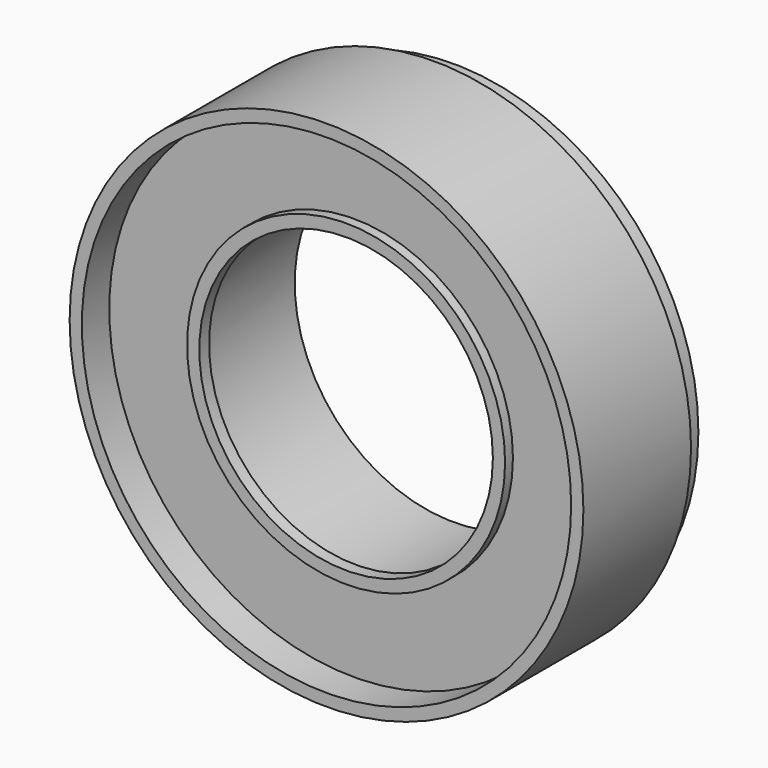
from build123d import *

# Parameters (mm, degrees)
F0_R          = 10.5
F0_R_2        = 10
F1_DEPTH      = 1.5
F1_DEPTH_BACK = 4
F0_R_3        = 6.5
F0_R_4        = 6
F2_DEPTH      = 0.5
F3_DEPTH      = 0.1
F4_DEPTH      = 5


with BuildPart() as f1:
    # F0 (on Front) → F1 (new body, two sides)
    with BuildSketch(Plane.XZ) as f1_sk:
        with Locations((-128.683195, -12.319595)):
            Circle(F0_R)
        with Locations((-128.683195, -12.319595)):
            Circle(F0_R_2, mode=Mode.SUBTRACT)
    extrude(amount=F1_DEPTH)
    extrude(f1_sk.sketch, amount=-F1_DEPTH_BACK)


with BuildPart() as f2:
    # F0 (on Front) → F2 (new body)
    with BuildSketch(Plane.XZ):
        with Locations((-128.683195, -12.319595)):
            Circle(F0_R_3)
        with Locations((-128.683195, -12.319595)):
            Circle(F0_R_4, mode=Mode.SUBTRACT)
    extrude(amount=F2_DEPTH)


with BuildPart() as f3:
    # F0 (on Front) → F3 (new body)
    with BuildSketch(Plane.XZ):
        with Locations((-128.683195, -12.319595)):
            Circle(F0_R_2)
        with Locations((-128.683195, -12.319595)):
            Circle(F0_R_3, mode=Mode.SUBTRACT)
    extrude(amount=F3_DEPTH)


with BuildPart() as f4:
    # F0 (on Front) → F4 (new body)
    with BuildSketch(Plane.XZ):
        with Locations((-128.683195, -12.319595)):
            Circle(F0_R_2)
        with Locations((-128.683195, -12.319595)):
            Circle(F0_R_3, mode=Mode.SUBTRACT)
    extrude(amount=-F4_DEPTH)


solid = Compound([f1.part, f2.part, f3.part, f4.part])
